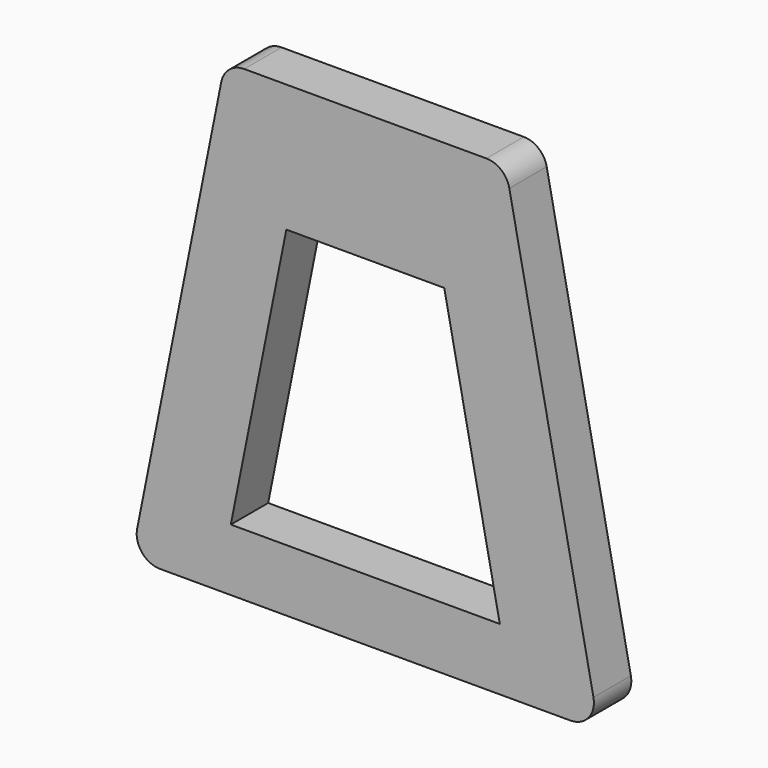
from build123d import *

# Parameters (mm, degrees)
F1_DEPTH = 10
F2_R     = 5
F4_DEPTH = 10.001


with BuildPart() as f1:
    # F0 (on Front) → F1 (new body)
    with BuildSketch(Plane.XZ):
        Polygon((-30, 100), (-50, 0), (50, 0), (30, 100), align=None)
    extrude(amount=F1_DEPTH)

    # F2
    f2_edges = [f1.edges().sort_by_distance(p)[0] for p in [
        (-30, -5, 100),
        (30, -5, 100),
        (-50, -5, 0),
        (50, -5, 0),
    ]]
    fillet(f2_edges, radius=F2_R)

    # F3 (on face) → F4 (cut, through all)
    with BuildSketch(Plane.XZ.offset(10)):
        Polygon((-16.890058, 72.688381), (-28.772679, 13.275276), (28.772679, 13.275276), (16.890058, 72.688381), align=None)
    extrude(amount=-F4_DEPTH, mode=Mode.SUBTRACT)


solid = f1.part
